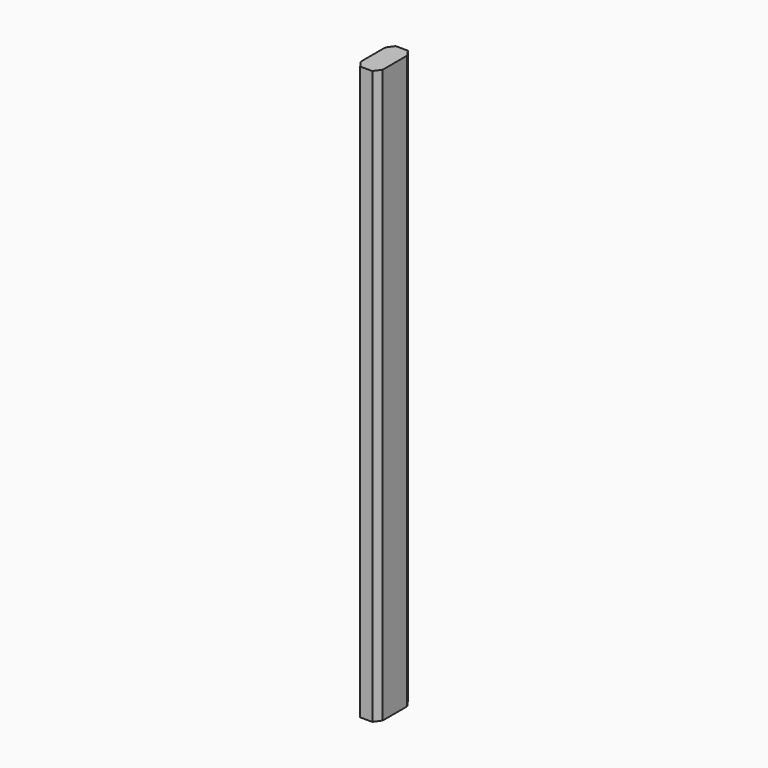
from build123d import *

# Parameters (mm, degrees)
F1_DEPTH = 177.8


with BuildPart() as f1:
    # F0 (on Top) → F1 (new body)
    with BuildSketch(Plane.XY):
        Polygon((-3.398124, 0), (0, 0), (0, 6.875), (-1.9, 6.875), (-3.398124, 4.75), align=None)
        Polygon((0, 6.875), (0, 0), (3.398124, 0), (3.398124, 4.75), (1.9, 6.875), align=None)
        Polygon((3.398124, 0), (0, 0), (-3.398124, 0), (-3.398124, -4.75), (-1.9, -6.875), (0, -6.875), (1.9, -6.875), (3.398124, -4.75), align=None)
    extrude(amount=F1_DEPTH)


solid = f1.part
